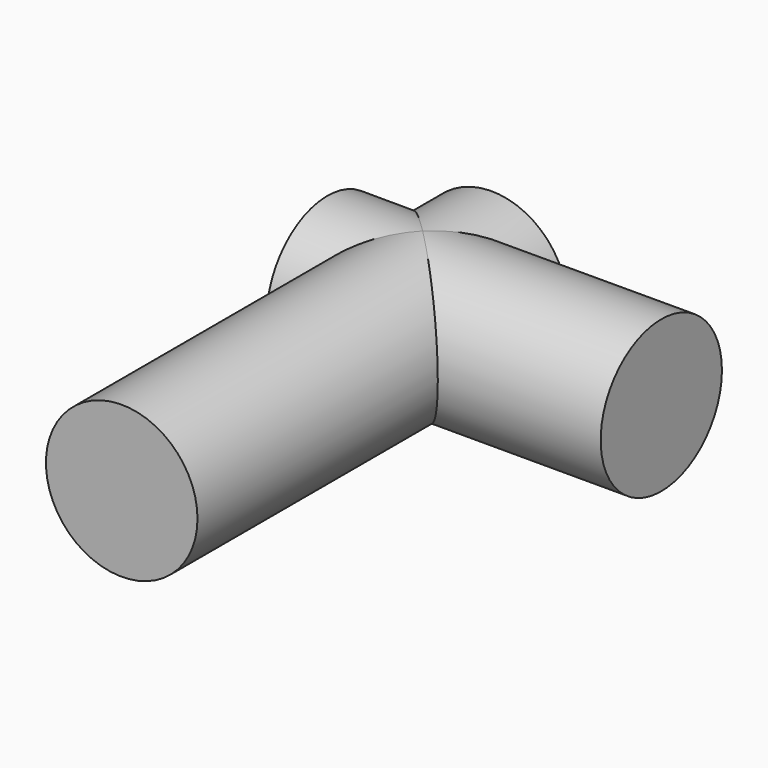
from build123d import *

# Parameters (mm, degrees)
F0_R     = 2.95
F2_DEPTH = 13
F1_R     = 2.95
F3_DEPTH = 18


with BuildPart() as f2:
    # F0 (on Right) → F2 (new body)
    with BuildSketch(Plane.YZ):
        with Locations((-3.358043, 0)):
            Circle(F0_R)
    extrude(amount=F2_DEPTH)

    # F1 (on Front) → F3 (join)
    with BuildSketch(Plane.XZ):
        with Locations((3.708036, 0)):
            Circle(F1_R)
    extrude(amount=F3_DEPTH)


solid = f2.part
